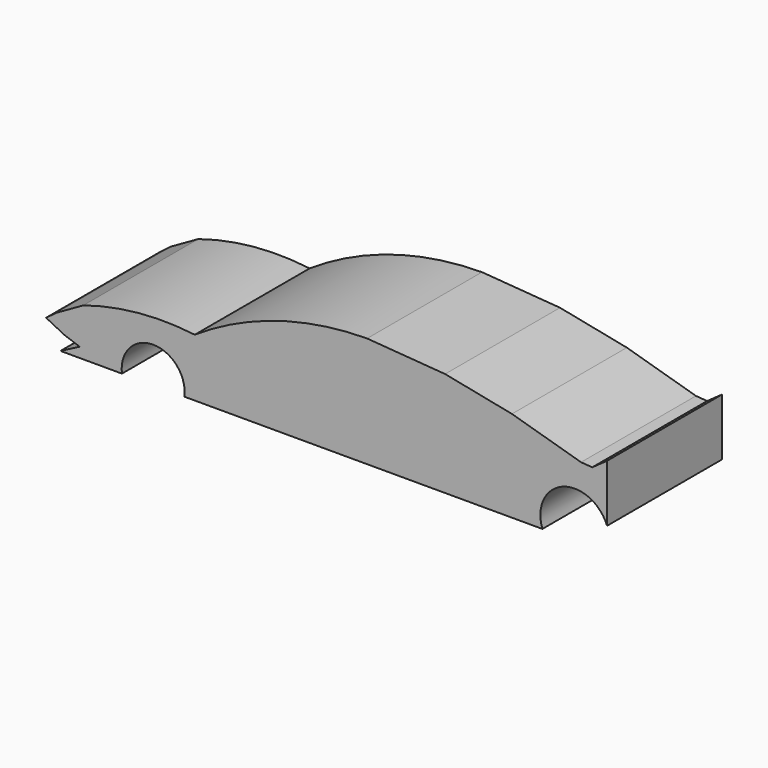
from build123d import *

# Parameters (mm, degrees)
F1_DEPTH = 38.1


with BuildPart() as f1:
    # F0 (on Front) → F1 (new body)
    with BuildSketch(Plane.XZ):
        with BuildLine():
            Line((23.746809, 23.746809), (3.054569, 25.323361))
            ThreePointArc((3.054569, 25.323361), (-20.828977, 21.67196), (-42.665429, 11.331465))
            ThreePointArc((-42.665429, 11.331465), (-57.594957, 11.552189), (-72.225779, 8.5725))
            Line((-72.225779, 8.5725), (-79.409733, 4.488737))
            Line((-79.409733, 4.488737), (-82.107544, 2.463362))
            Line((-82.107544, 2.463362), (-77.172592, 0))
            Line((-77.172592, 0), (-73.197633, -1.392897))
            Line((-73.197633, -1.392897), (-78.291319, -4.039914))
            Line((-78.291319, -4.039914), (-67.496121, -4.039914))
            Line((-67.496121, -4.039914), (-61.978191, -4.039914))
            ThreePointArc((-61.978191, -4.039914), (-53.701295, 5.423382), (-45.424398, -4.039914))
            Line((-45.424398, -4.039914), (49.562849, -4.039914))
            ThreePointArc((49.562849, -4.039914), (55.005727, 7.621836), (66.707842, 2.266293))
            Line((66.707842, 2.266293), (66.707842, 6.207672))
            Line((66.707842, 6.207672), (66.707842, 17.440604))
            Line((66.707842, 17.440604), (62.779258, 14.65251))
            Line((62.779258, 14.65251), (59.81043, 14.878707))
            Line((59.81043, 14.878707), (41.483015, 20.199569))
            Line((41.483015, 20.199569), (23.746809, 23.746809))
        make_face()
    extrude(amount=F1_DEPTH)


solid = f1.part
